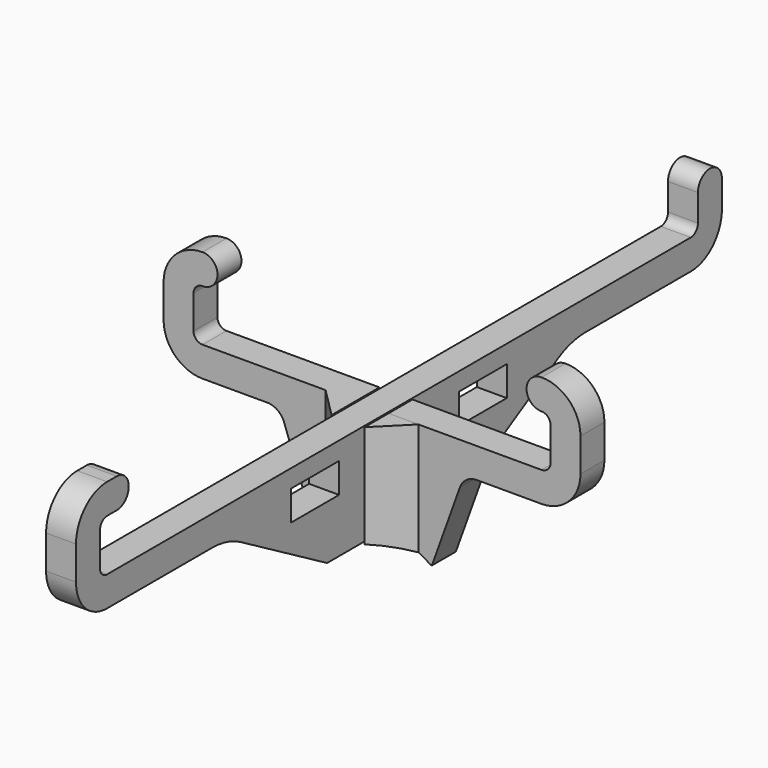
from build123d import *

# Parameters (mm, degrees)
SKETCH_W     = 10
SKETCH_H     = 5
PAD_DEPTH    = 2.5
PAD001_DEPTH = 2.5
PAD002_DEPTH = 20
POCKET_DEPTH = 10


with BuildPart() as vertical:
    # Sketch → Pad (new body, symmetric)
    with BuildSketch(Plane.YZ):
        with BuildLine():
            Line((67.4, 18.500001), (67.4, 22.999999))
            ThreePointArc((67.4, 22.999999), (64.9, 25.499999), (62.4, 23))
            Line((62.4, 18.499999), (62.4, 23))
            ThreePointArc((60.899999, 17), (61.960659, 17.439339), (62.4, 18.499999))
            Line((-60.9, 17), (60.899999, 17))
            ThreePointArc((-62.4, 18.499999), (-61.96066, 17.439339), (-60.9, 17))
            Line((-62.4, 24.100001), (-62.4, 18.499999))
            ThreePointArc((-60.899999, 25.6), (-61.960659, 25.160661), (-62.4, 24.100001))
            Line((-60.899999, 25.6), (-58.899999, 25.6))
            ThreePointArc((-58.899999, 25.6), (-56.399999, 28.1), (-58.899999, 30.6))
            Line((-58.899999, 30.6), (-60.900001, 30.6))
            ThreePointArc((-60.900001, 30.6), (-65.496194, 28.696194), (-67.4, 24.100001))
            Line((-67.4, 18.499999), (-67.4, 24.100001))
            ThreePointArc((-67.4, 18.499999), (-65.496194, 13.903805), (-60.9, 12))
            Line((-60.9, 12), (-38.96081, 12))
            ThreePointArc((-33, 10.392302), (-35.873903, 11.591025), (-38.96081, 12))
            Line((-15, 0), (-33, 10.392302))
            Line((-15, 0), (-2.75, 0))
            Line((-2.75, 0), (-2.75, 8.7))
            Line((-2.75, 8.7), (2.75, 8.7))
            Line((2.75, 8.7), (2.75, 0))
            Line((2.75, 0), (15, 0))
            Line((15, 0), (33, 10.392302))
            ThreePointArc((38.96081, 12), (35.873903, 11.591025), (33, 10.392302))
            Line((38.96081, 12), (60.9, 12))
            ThreePointArc((60.9, 12), (65.496194, 13.903806), (67.4, 18.500001))
        make_face()
        with Locations((-17.5, 11.5)):
            Rectangle(SKETCH_W, SKETCH_H, mode=Mode.SUBTRACT)
        with Locations((17.5, 11.5)):
            Rectangle(SKETCH_W, SKETCH_H, mode=Mode.SUBTRACT)
    extrude(amount=PAD_DEPTH, both=True)


with BuildPart() as fusion:
    # Sketch001 → Pad001 (new body, symmetric)
    with BuildSketch(Plane.XZ):
        with BuildLine():
            Line((17.5, 12.000012), (28.29999, 12))
            ThreePointArc((28.29999, 12), (32.896191, 13.903803), (34.8, 18.500002))
            Line((34.8, 24.100021), (34.8, 18.500002))
            ThreePointArc((34.8, 24.100021), (32.896194, 28.696217), (28.299998, 30.600023))
            ThreePointArc((28.299998, 30.600023), (25.799998, 28.100023), (28.299998, 25.600023))
            ThreePointArc((29.8, 24.100021), (29.36066, 25.160683), (28.299998, 25.600023))
            Line((29.8, 18.500002), (29.8, 24.100021))
            ThreePointArc((28.299998, 17), (29.36066, 17.43934), (29.8, 18.500002))
            Line((2.75, 17), (28.299998, 17))
            Line((2.75, 8.3), (2.75, 17))
            Line((-2.75, 8.3), (2.75, 8.3))
            Line((-2.75, 17.000012), (-2.75, 8.3))
            Line((-28.3, 17.000012), (-2.75, 17.000012))
            ThreePointArc((-29.8, 18.500002), (-29.360657, 17.439349), (-28.3, 17.000012))
            Line((-29.8, 18.500002), (-29.8, 24.100021))
            ThreePointArc((-28.299997, 25.600012), (-29.360656, 25.160676), (-29.8, 24.100021))
            ThreePointArc((-28.299997, 25.600012), (-25.799998, 28.100012), (-28.299998, 30.600012))
            ThreePointArc((-28.299998, 30.600012), (-32.89619, 28.69621), (-34.8, 24.100021))
            Line((-34.8, 24.100021), (-34.8, 18.500002))
            ThreePointArc((-34.8, 18.500002), (-32.89619, 13.903814), (-28.299998, 12.000012))
            Line((-28.299998, 12.000012), (-17.5, 12.000012))
            ThreePointArc((-14.676752, 10.014541), (-15.774252, 11.453947), (-17.5, 12.000012))
            Line((-14.676752, 10.014541), (-10, -3))
            Line((-10, -3), (10, -3))
            Line((10, -3), (14.676749, 10.014541))
            ThreePointArc((17.5, 12.000012), (15.77425, 11.453947), (14.676749, 10.014541))
        make_face()
    extrude(amount=PAD001_DEPTH, both=True)

    # Sketch002 → Pad002 (new body)
    with BuildSketch(Plane(origin=(0, 0, 17.000012), x_dir=(-1, 0, 0), z_dir=(0, 0, 1))):
        Polygon((-7.75, 2.5), (-2.75, 7.5), (-2.75, 2.5), align=None)
        Polygon((2.75, 7.5), (2.75, 2.5), (7.75, 2.5), align=None)
    extrude(amount=-PAD002_DEPTH)

    # Sketch003 → Pocket (cut)
    with BuildSketch(Plane(origin=(0, 2.5, 0), x_dir=(1, 0, 0), z_dir=(0, 1, 0))):
        with BuildLine():
            ThreePointArc((-10, 3.138593), (0, 0), (10, 3.138593))
            Line((-10, 3.138593), (10, 3.138593))
        make_face()
    extrude(amount=-POCKET_DEPTH, mode=Mode.SUBTRACT)

    # Fusion: union Vertical
    add(vertical.part)


solid = fusion.part
